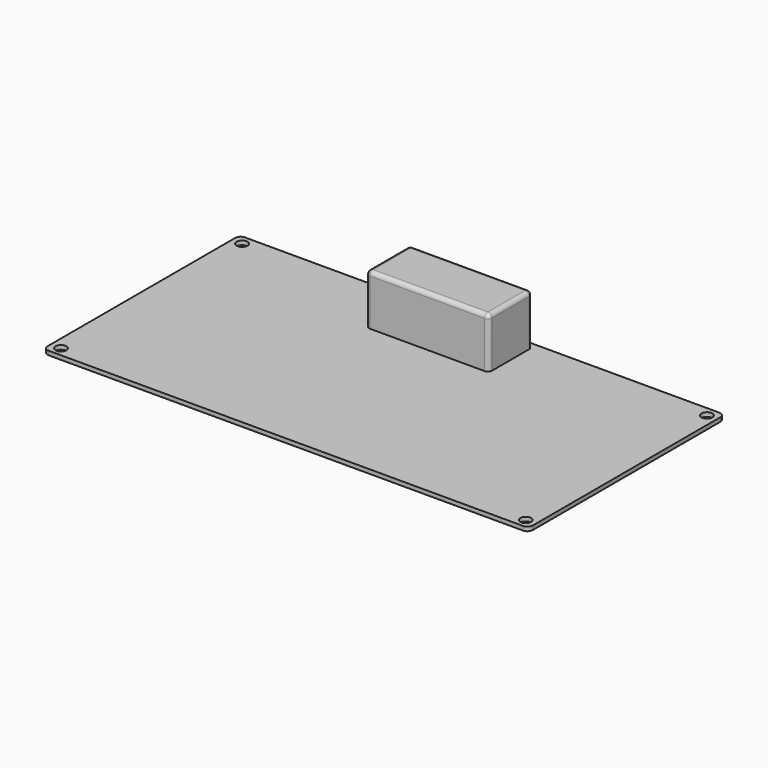
from build123d import *

# Parameters (mm, degrees)
F0_W     = 178
F0_H     = 90
F1_DEPTH = 1.5
F2_R     = 2
F4_D     = 4
F4_DEPTH = 1.8
F4_TIP   = 1.2017212381
F3_W     = 45
F3_H     = 20
F5_DEPTH = 20
F6_R     = 1.5


with BuildPart() as f1:
    # F0 (on Top) → F1 (new body)
    with BuildSketch(Plane.XY):
        with Locations((-5.5619984269, 14.5544354618)):
            Rectangle(F0_W, F0_H)
    extrude(amount=F1_DEPTH)

    # F2
    f2_edges = [f1.edges().sort_by_distance(p)[0] for p in [
        (83.438002, 59.554435, 0.75),
        (83.438002, -30.445565, 0.75),
        (-94.561998, -30.445565, 0.75),
        (-94.561998, 59.554435, 0.75),
    ]]
    fillet(f2_edges, radius=F2_R)

    # F4
    with Locations(Plane(origin=(0, 0, 0), x_dir=(1, 0, 0), z_dir=(0, 0, -1))):
        with Locations((-90.7581523061, -55.987469852), (-90.7581523061, 27.0741246641), (79.7476842999, 27.0741246641), (79.7476842999, -55.987469852)):
            Hole(F4_D / 2, depth=F4_DEPTH)
            with Locations((0, 0, -(F4_DEPTH + F4_TIP / 2))):  # 118° drill point
                Cone(0, F4_D / 2, F4_TIP, mode=Mode.SUBTRACT)


with BuildPart() as f5:
    # F3 (on Top) → F5 (new body)
    with BuildSketch(Plane.XY):
        with Locations((-8.1554918271, 47.6872867346)):
            Rectangle(F3_W, F3_H)
    extrude(amount=F5_DEPTH)

    # F6
    f6_edges = [f5.edges().sort_by_distance(p)[0] for p in [
        (-8.155492, 37.687287, 20),
        (14.344508, 37.687287, 10),
        (14.344508, 47.687287, 20),
        (14.344508, 57.687287, 10),
        (-8.155492, 57.687287, 20),
        (-30.655492, 57.687287, 10),
        (-30.655492, 47.687287, 20),
        (-30.655492, 37.687287, 10),
    ]]
    fillet(f6_edges, radius=F6_R)


solid = Compound([f1.part, f5.part])
